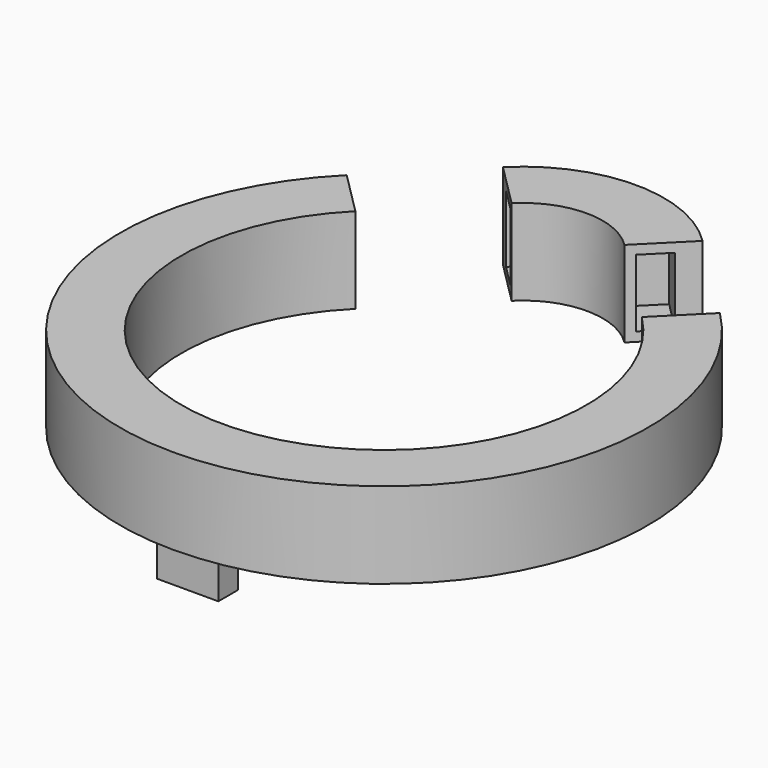
from build123d import *

# Parameters (mm, degrees)
PAD_DEPTH       = 7
SKETCH003_W     = 2.5
SKETCH003_H     = 5.5
POCKET_DEPTH    = 3.5
SKETCH004_W     = 2.5
SKETCH004_H     = 5.5
POCKET001_DEPTH = 3.5
PAD001_DEPTH    = 7
SKETCH007_W     = 2.5
SKETCH007_H     = 5.5
POCKET002_DEPTH = 3.5
SKETCH008_W     = 2.5
SKETCH008_H     = 5.5
POCKET003_DEPTH = 3.5
SKETCH009_W     = 5
SKETCH009_H     = 2
PAD002_DEPTH    = 3.5


with BuildPart() as top:
    # Sketch → Pad (new body)
    with BuildSketch(Plane.XY):
        with BuildLine():
            Line((8.1317279832, 15.2027957954), (4.5961940776, 11.6672618892))
            ThreePointArc((4.5961940776, 11.6672618892), (0, 13.5710678493), (-4.5961940776, 11.6672618892))
            Line((-8.1317279832, 15.2027957954), (-4.5961940776, 11.6672618892))
            ThreePointArc((8.1317279832, 15.2027957954), (0, 18.5710678493), (-8.1317279832, 15.2027957954))
        make_face()
    extrude(amount=PAD_DEPTH)

    # Sketch003 (on Face2 of Pad) → Pocket (cut)
    with BuildSketch(Plane(origin=(-3.5355339055, 3.535533905, 0), x_dir=(0.7071067811, 0.7071067812, 0), z_dir=(0.7071067812, -0.7071067811, 0))):
        with Locations((13.5, 3.5)):
            Rectangle(SKETCH003_W, SKETCH003_H)
    extrude(amount=-POCKET_DEPTH, mode=Mode.SUBTRACT)

    # Sketch004 (on Face3 of Pocket) → Pocket001 (cut)
    with BuildSketch(Plane(origin=(3.5355339055, 3.535533905, 0), x_dir=(0.7071067811, -0.7071067812, 0), z_dir=(-0.7071067812, -0.7071067811, 0))):
        with Locations((-13.5, 3.5)):
            Rectangle(SKETCH004_W, SKETCH004_H)
    extrude(amount=-POCKET001_DEPTH, mode=Mode.SUBTRACT)


with BuildPart() as bottom:
    # Sketch006 → Pad001 (new body)
    with BuildSketch(Plane.XY):
        with BuildLine():
            ThreePointArc((-11.6672634162, 4.596194732), (0, -23.5710831296), (11.6672634162, 4.596194732))
            Line((11.6672634162, 4.596194732), (15.2027962317, 8.1317297284))
            ThreePointArc((-15.2027962317, 8.1317297284), (0, -28.5710831296), (15.2027962317, 8.1317297284))
            Line((-15.2027962317, 8.1317297284), (-11.6672634162, 4.596194732))
        make_face()
    extrude(amount=PAD001_DEPTH)

    # Sketch007 (on Face1 of Pad001) → Pocket002 (cut)
    with BuildSketch(Plane(origin=(-3.5355379407, -3.5355357597, 0), x_dir=(-0.7071065631, 0.7071069993, 0), z_dir=(0.7071069993, 0.7071065631, 0))):
        with Locations((13.5, 3.5)):
            Rectangle(SKETCH007_W, SKETCH007_H)
    extrude(amount=-POCKET002_DEPTH, mode=Mode.SUBTRACT)

    # Sketch008 (on Face10 of Pocket002) → Pocket003 (cut)
    with BuildSketch(Plane(origin=(3.5355379407, -3.5355357597, 0), x_dir=(-0.7071065631, -0.7071069993, 0), z_dir=(-0.7071069993, 0.7071065631, 0))):
        with Locations((-13.5, 3.5)):
            Rectangle(SKETCH008_W, SKETCH008_H)
    extrude(amount=-POCKET003_DEPTH, mode=Mode.SUBTRACT)

    # Sketch009 → Pad002 (join)
    with BuildSketch(Plane.XY):
        with Locations((0, -26.0710701628)):
            Rectangle(SKETCH009_W, SKETCH009_H)
    extrude(amount=-PAD002_DEPTH)


solid = Compound([top.part, bottom.part])
